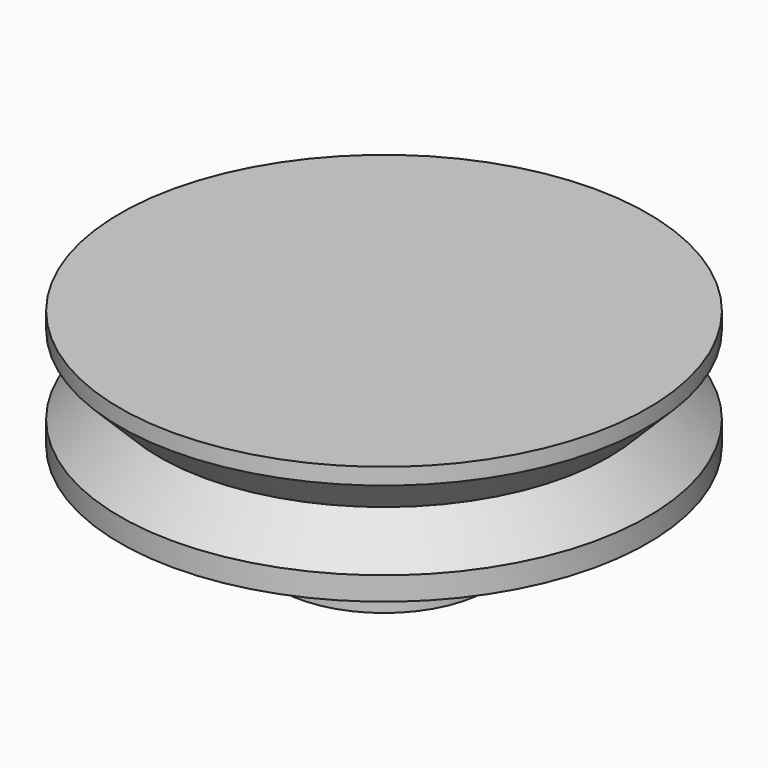
from build123d import *

# Parameters (mm, degrees)
CYLINDER002_R                 = 2
CYLINDER002_DEPTH             = 30
CYLINDER002_PITCH_ANGLE       = 90
ROTATEEXTRUDE_ROLL_ANGLE      = 90
CYLINDER001_R                 = 20
CYLINDER001_DEPTH             = 9
CUBE_W                        = 3
CUBE_H                        = 5
CUBE_DEPTH                    = 16
CYLINDER_R                    = 8
CYLINDER_DEPTH                = 16
DIFFERENCE002_ROLL_ANGLE      = 180
DIFFERENCE002_PLACEMENT_ANGLE = 90


with BuildPart() as cylinder002:
    # cylinder002 → cylinder002 (new body)
    with BuildSketch(Plane.XY):
        Circle(CYLINDER002_R)
    extrude(amount=CYLINDER002_DEPTH)


with BuildPart() as cylinder002_1:
    # cylinder002 pitch: moved
    add(cylinder002.part.rotate(Axis((0, 0, 0), (0, 1, 0)), CYLINDER002_PITCH_ANGLE))


with BuildPart() as cylinder002_2:
    # cylinder002 placement: moved
    add(cylinder002_1.part.moved(Location((-15, 0, 12.5))))


with BuildPart() as rotateextrude:
    # RefineRotateExtrude → RotateExtrude (revolve)
    with BuildSketch(Plane(origin=(21.25, 4.242641, 0), x_dir=(0, 1, 0), z_dir=(0, 0, 1))):
        Polygon((0, 4.242641), (-4.242641, 0), (0, -4.242641), (4.242641, 0), align=None)
    revolve(axis=Axis((0, 0, 0), (0, 1, 0)))


with BuildPart() as rotateextrude_1:
    # RotateExtrude roll: moved
    add(rotateextrude.part.rotate(Axis((0, 0, 0), (1, 0, 0)), ROTATEEXTRUDE_ROLL_ANGLE))


with BuildPart() as rotateextrude_2:
    # RotateExtrude placement: moved
    add(rotateextrude_1.part)


with BuildPart() as cylinder001:
    # cylinder001 → cylinder001 (new body)
    with BuildSketch(Plane.XY):
        Circle(CYLINDER001_R)
    extrude(amount=CYLINDER001_DEPTH)


with BuildPart() as cube:
    # cube → cube (new body)
    with BuildSketch(Plane(origin=(-1.5, -2.5, 0), x_dir=(1, 0, 0), z_dir=(0, 0, 1))):
        with Locations((1.5, 2.5)):
            Rectangle(CUBE_W, CUBE_H)
    extrude(amount=CUBE_DEPTH)


with BuildPart() as obj1:
    # cylinder → cylinder (new body)
    with BuildSketch(Plane.XY):
        Circle(CYLINDER_R)
    extrude(amount=CYLINDER_DEPTH)

    # difference: cut cube
    add(cube.part, mode=Mode.SUBTRACT)

    # Group: union cylinder001
    add(cylinder001.part)

    # difference001: cut RotateExtrude
    add(rotateextrude_2.part, mode=Mode.SUBTRACT)

    # difference002: cut cylinder002
    add(cylinder002_2.part, mode=Mode.SUBTRACT)


with BuildPart() as obj1_1:
    # difference002 roll: moved
    add(obj1.part.rotate(Axis((0, 0, 0), (1, 0, 0)), DIFFERENCE002_ROLL_ANGLE))


with BuildPart() as obj1_2:
    # difference002 placement: moved
    add(obj1_1.part.moved(Location((0, 8, 35.6))).rotate(Axis((0, 8, 35.6), (0, 0, 1)), DIFFERENCE002_PLACEMENT_ANGLE))


solid = obj1_2.part
